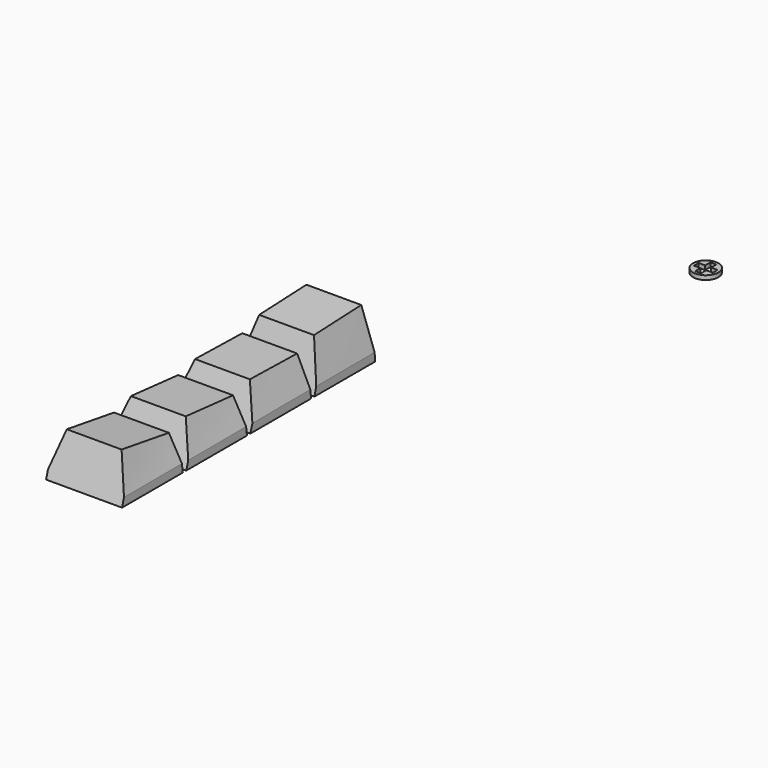
from build123d import *

# Parameters (mm, degrees)
F1_DEPTH  = 18
F18_R     = 3
F19_DEPTH = 1


with BuildPart() as f1:
    # F0 (on Right) → F1 (new body)
    with BuildSketch(Plane.YZ):
        Polygon((-18, 0), (0, 0), (-1, 11.4), (-15, 10.8), align=None)
    extrude(amount=F1_DEPTH)

    # F15 (on face) → F16 section 0
    with BuildSketch(Plane(origin=(0, -16.7106017192, 4.6418338109), x_dir=(1, 0, 0), z_dir=(0, -0.9635179096, 0.2676438638))):
        Polygon((0, -2.8175895481), (2.5, 6.3913354672), (0, 6.3913354672), align=None)
    # F14 (on face) → F16 section 1
    with BuildSketch(Plane(origin=(0, 0, 0), x_dir=(-1, 0, 0), z_dir=(0, 0.9961747239, 0.0873837477))):
        Polygon((0, 11.4437756007), (-2.5, 11.4437756007), (0, 2), align=None)
    loft(mode=Mode.SUBTRACT)

    # F14 (on face) → F17 section 0
    with BuildSketch(Plane(origin=(0, 0, 0), x_dir=(-1, 0, 0), z_dir=(0, 0.9961747239, 0.0873837477))):
        Polygon((-18, 11.4437756007), (-18, 2), (-15.5, 11.4437756007), align=None)
    # F15 (on face) → F17 section 1
    with BuildSketch(Plane(origin=(0, -16.7106017192, 4.6418338109), x_dir=(1, 0, 0), z_dir=(0, -0.9635179096, 0.2676438638))):
        Polygon((15.5, 6.3913354672), (18, -2.8175895481), (18, 6.3913354672), align=None)
    loft(mode=Mode.SUBTRACT)


with BuildPart() as f1b:
    # F0 (on Right) → F1, piece 2 (new body)
    with BuildSketch(Plane.YZ):
        Polygon((-37, 0), (-19, 0), (-20, 9), (-34, 9.3), align=None)
    extrude(amount=F1_DEPTH)

    # F11 (on face) → F12 section 0
    with BuildSketch(Plane(origin=(0, -33.5127238454, 10.8105560792), x_dir=(1, 0, 0), z_dir=(0, -0.9517086178, 0.3070027799))):
        Polygon((15.5, -1.5872043722), (18, -9.3591028571), (18, -1.5872043722), align=None)
    # F10 (on face) → F12 section 1
    with BuildSketch(Plane(origin=(0, -18.7682926829, -2.0853658537), x_dir=(-1, 0, 0), z_dir=(0, 0.9938837347, 0.1104315261))):
        Polygon((-18, 11.1535841336), (-18, 4.0981989954), (-15.5, 11.1535841336), align=None)
    loft(mode=Mode.SUBTRACT)

    # F10 (on face) → F13 section 0
    with BuildSketch(Plane(origin=(0, -18.7682926829, -2.0853658537), x_dir=(-1, 0, 0), z_dir=(0, 0.9938837347, 0.1104315261))):
        Polygon((0, 11.1535841336), (-2.5, 11.1535841336), (0, 4.0981989954), align=None)
    # F11 (on face) → F13 section 1
    with BuildSketch(Plane(origin=(0, -33.5127238454, 10.8105560792), x_dir=(1, 0, 0), z_dir=(0, -0.9517086178, 0.3070027799))):
        Polygon((0, -9.3591028571), (2.5, -1.5872043722), (0, -1.5872043722), align=None)
    loft(mode=Mode.SUBTRACT)


with BuildPart() as f1c:
    # F0 (on Right) → F1, piece 3 (new body)
    with BuildSketch(Plane.YZ):
        Polygon((-56, 0), (-38, 0), (-39, 8), (-53, 9.3), align=None)
    extrude(amount=F1_DEPTH)

    # F2 (on face) → F4 section 0
    with BuildSketch(Plane(origin=(0, -37.4153846154, -4.6769230769), x_dir=(-1, 0, 0), z_dir=(0, 0.9922778767, 0.1240347346))):
        Polygon((-18, 12.7755776627), (-18, 6.7133199144), (-15.5, 12.7755776627), align=None)
    # F3 (on face) → F4 section 1
    with BuildSketch(Plane(origin=(0, -50.7219604147, 16.3619227144), x_dir=(1, 0, 0), z_dir=(0, -0.9517086178, 0.3070027799))):
        Polygon((15.5, -7.4202571907), (18, -15.1921556757), (18, -7.4202571907), align=None)
    loft(mode=Mode.SUBTRACT)

    # F2 (on face) → F5 section 0
    with BuildSketch(Plane(origin=(0, -37.4153846154, -4.6769230769), x_dir=(-1, 0, 0), z_dir=(0, 0.9922778767, 0.1240347346))):
        Polygon((0, 12.7755776627), (-2.5, 12.7755776627), (0, 6.7133199144), align=None)
    # F3 (on face) → F5 section 1
    with BuildSketch(Plane(origin=(0, -50.7219604147, 16.3619227144), x_dir=(1, 0, 0), z_dir=(0, -0.9517086178, 0.3070027799))):
        Polygon((0, -15.1921556757), (2.5, -7.4202571907), (0, -7.4202571907), align=None)
    loft(mode=Mode.SUBTRACT)


with BuildPart() as f1d:
    # F0 (on Right) → F1, piece 4 (new body)
    with BuildSketch(Plane.YZ):
        Polygon((-75, 0), (-57, 0), (-58, 7.9), (-72, 10.1), align=None)
    extrude(amount=F1_DEPTH)

    # F6 (on face) → F8 section 0
    with BuildSketch(Plane(origin=(0, -56.1010881564, -7.1014035641), x_dir=(-1, 0, 0), z_dir=(0, 0.9920834727, 0.1255801864))):
        Polygon((-18, 15.1211102464), (-18, 9.1580706257), (-15.5, 15.1211102464), align=None)
    # F7 (on face) → F8 section 1
    with BuildSketch(Plane(origin=(0, -68.9194667147, 20.4711287271), x_dir=(1, 0, 0), z_dir=(0, -0.9586063962, 0.2847345731))):
        Polygon((18, -10.8189646638), (15.5, -10.8189646638), (18, -19.355092985), align=None)
    loft(mode=Mode.SUBTRACT)

    # F6 (on face) → F9 section 0
    with BuildSketch(Plane(origin=(0, -56.1010881564, -7.1014035641), x_dir=(-1, 0, 0), z_dir=(0, 0.9920834727, 0.1255801864))):
        Polygon((0, 15.1211102464), (-2.5, 15.1211102464), (0, 9.1580706257), align=None)
    # F7 (on face) → F9 section 1
    with BuildSketch(Plane(origin=(0, -68.9194667147, 20.4711287271), x_dir=(1, 0, 0), z_dir=(0, -0.9586063962, 0.2847345731))):
        Polygon((0, -10.8189646638), (0, -19.355092985), (2.5, -10.8189646638), align=None)
    loft(mode=Mode.SUBTRACT)


with BuildPart() as f19:
    # F18 (on Top) → F19 (new body)
    with BuildSketch(Plane.XY):
        with Locations((42.2952837348, 67.5478831649)):
            Circle(F18_R)
        Polygon((40.0452837348, 68.2478831649), (41.5952837348, 68.2478831649), (41.5952837348, 69.7978831649), (42.9952837348, 69.7978831649), (42.9952837348, 68.2478831649), (44.5452837348, 68.2478831649), (44.5452837348, 66.8478831649), (42.9952837348, 66.8478831649), (42.9952837348, 65.2978831649), (41.5952837348, 65.2978831649), (41.5952837348, 66.8478831649), (40.0452837348, 66.8478831649), align=None, mode=Mode.SUBTRACT)
    extrude(amount=-F19_DEPTH)


solid = Compound([f1.part, f1b.part, f1c.part, f1d.part, f19.part])
